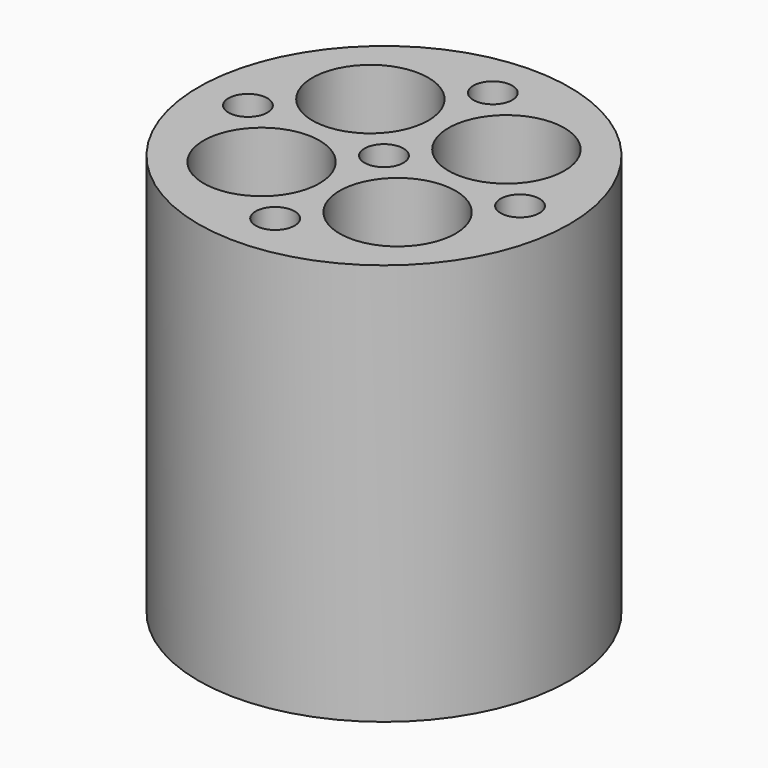
from build123d import *

# Parameters (mm, degrees)
F0_R     = 30
F0_R_2   = 9.375
F0_R_3   = 3.15
F1_DEPTH = 65


with BuildPart() as f1:
    # F0 (on Top) → F1 (new body)
    with BuildSketch(Plane.XY):
        Circle(F0_R)
        with Locations((-11, -11)):
            Circle(F0_R_2, mode=Mode.SUBTRACT)
        with Locations((0, -22)):
            Circle(F0_R_3, mode=Mode.SUBTRACT)
        with Locations((11, -11)):
            Circle(F0_R_2, mode=Mode.SUBTRACT)
        with Locations((-22, 0)):
            Circle(F0_R_3, mode=Mode.SUBTRACT)
        with Locations((-11, 11)):
            Circle(F0_R_2, mode=Mode.SUBTRACT)
        Circle(F0_R_3, mode=Mode.SUBTRACT)
        with Locations((11, 11)):
            Circle(F0_R_2, mode=Mode.SUBTRACT)
        with Locations((22, 0)):
            Circle(F0_R_3, mode=Mode.SUBTRACT)
        with Locations((0, 22)):
            Circle(F0_R_3, mode=Mode.SUBTRACT)
    extrude(amount=F1_DEPTH)


solid = f1.part
